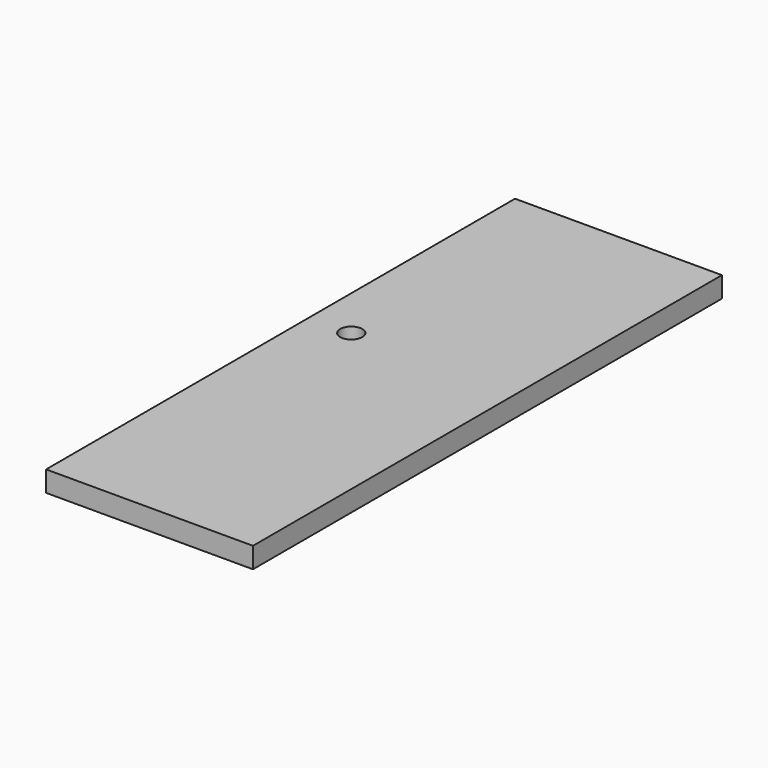
from build123d import *

# Parameters (mm, degrees)
CYLINDER028_R           = 1.6
CYLINDER028_DEPTH       = 10
CYLINDER028_PITCH_ANGLE = 90
BOX003_W                = 3
BOX003_H                = 85
BOX003_DEPTH            = 30
CUT025_PITCH_ANGLE      = 90


with BuildPart() as back_hole:
    # Cylinder028 → Cylinder028 (new body)
    with BuildSketch(Plane.XY):
        Circle(CYLINDER028_R)
    extrude(amount=CYLINDER028_DEPTH)


with BuildPart() as back_hole_1:
    # Cylinder028 pitch: moved
    add(back_hole.part.rotate(Axis((0, 0, 0), (0, 1, 0)), CYLINDER028_PITCH_ANGLE))


with BuildPart() as back_hole_2:
    # Cylinder028 placement: moved
    add(back_hole_1.part.moved(Location((97.6, 47.69, -18.9))))


with BuildPart() as final_back:
    # Box003 → Box003 (new body)
    with BuildSketch(Plane(origin=(100, 0, -25), x_dir=(1, 0, 0), z_dir=(0, 0, 1))):
        with Locations((1.5, 42.5)):
            Rectangle(BOX003_W, BOX003_H)
    extrude(amount=BOX003_DEPTH)

    # Cut025: cut back hole
    add(back_hole_2.part, mode=Mode.SUBTRACT)


with BuildPart() as final_back_1:
    # Cut025 pitch: moved
    add(final_back.part.rotate(Axis((0, 0, 0), (0, 1, 0)), CUT025_PITCH_ANGLE))


with BuildPart() as final_back_2:
    # Cut025 placement: moved
    add(final_back_1.part.moved(Location((-59, 0, 103))))


solid = final_back_2.part
